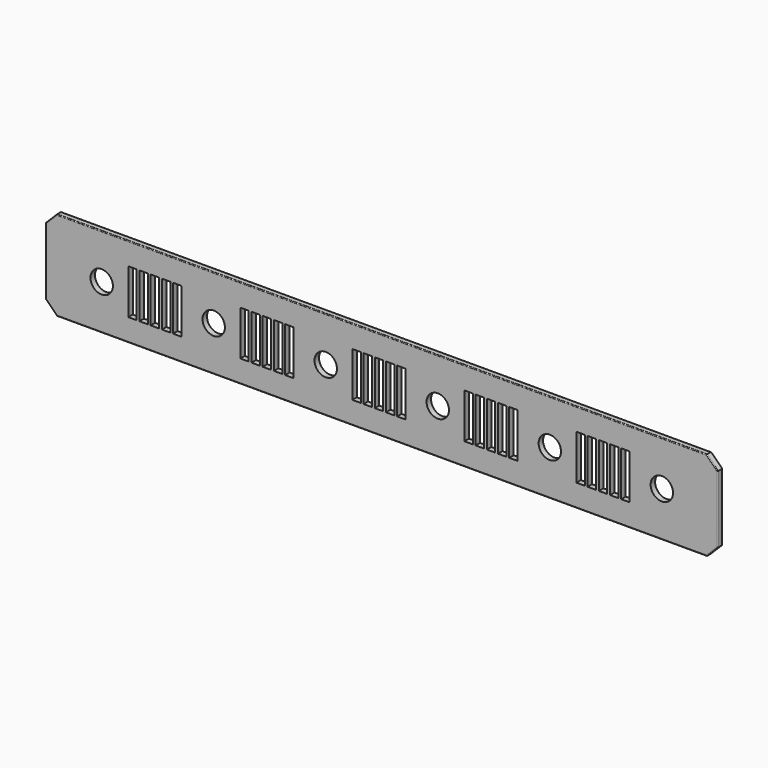
from build123d import *

# Parameters (mm, degrees)
F0_W     = 762
F0_H     = 101.6
F0_R     = 12.7
F1_DEPTH = 6.35
F2_W     = 9.525
F2_H     = 50.8
F3_DEPTH = 25.4
F4_SIZE  = 12.7
F5_R     = 0.9144


with BuildPart() as f1:
    # F0 (on Front) → F1 (new body)
    with BuildSketch(Plane.XZ):
        with Locations((381, 50.8)):
            Rectangle(F0_W, F0_H)
        with Locations((63.5, 50.8)):
            Circle(F0_R, mode=Mode.SUBTRACT)
        with Locations((190.5, 50.8)):
            Circle(F0_R, mode=Mode.SUBTRACT)
        with Locations((317.5, 50.8)):
            Circle(F0_R, mode=Mode.SUBTRACT)
        with Locations((444.5, 50.8)):
            Circle(F0_R, mode=Mode.SUBTRACT)
        with Locations((571.5, 50.8)):
            Circle(F0_R, mode=Mode.SUBTRACT)
        with Locations((698.5, 50.8)):
            Circle(F0_R, mode=Mode.SUBTRACT)
    extrude(amount=F1_DEPTH)

    # F2 (on face) → F3 (cut)
    with BuildSketch(Plane.XZ.offset(6.35)):
        with Locations((98.4377, 50.8)):
            Rectangle(F2_W, F2_H)
        with Locations((111.1377, 50.8)):
            Rectangle(F2_W, F2_H)
        with Locations((123.8377, 50.8)):
            Rectangle(F2_W, F2_H)
        with Locations((136.5377, 50.8)):
            Rectangle(F2_W, F2_H)
        with Locations((149.2377, 50.8)):
            Rectangle(F2_W, F2_H)
        with Locations((225.4377, 50.8)):
            Rectangle(F2_W, F2_H)
        with Locations((238.1377, 50.8)):
            Rectangle(F2_W, F2_H)
        with Locations((250.8377, 50.8)):
            Rectangle(F2_W, F2_H)
        with Locations((263.5377, 50.8)):
            Rectangle(F2_W, F2_H)
        with Locations((276.2377, 50.8)):
            Rectangle(F2_W, F2_H)
        with Locations((352.4377, 50.8)):
            Rectangle(F2_W, F2_H)
        with Locations((365.1377, 50.8)):
            Rectangle(F2_W, F2_H)
        with Locations((377.8377, 50.8)):
            Rectangle(F2_W, F2_H)
        with Locations((390.5377, 50.8)):
            Rectangle(F2_W, F2_H)
        with Locations((403.2377, 50.8)):
            Rectangle(F2_W, F2_H)
        with Locations((479.4377, 50.8)):
            Rectangle(F2_W, F2_H)
        with Locations((492.1377, 50.8)):
            Rectangle(F2_W, F2_H)
        with Locations((504.8377, 50.8)):
            Rectangle(F2_W, F2_H)
        with Locations((517.5377, 50.8)):
            Rectangle(F2_W, F2_H)
        with Locations((530.2377, 50.8)):
            Rectangle(F2_W, F2_H)
        with Locations((606.4377, 50.8)):
            Rectangle(F2_W, F2_H)
        with Locations((619.1377, 50.8)):
            Rectangle(F2_W, F2_H)
        with Locations((631.8377, 50.8)):
            Rectangle(F2_W, F2_H)
        with Locations((644.5377, 50.8)):
            Rectangle(F2_W, F2_H)
        with Locations((657.2377, 50.8)):
            Rectangle(F2_W, F2_H)
    extrude(amount=-F3_DEPTH, mode=Mode.SUBTRACT)

    # F4
    f4_edges = [f1.edges().sort_by_distance(p)[0] for p in [
        (762, -3.175, 101.6),
        (762, -3.175, 0),
        (0, -3.175, 0),
        (0, -3.175, 101.6),
    ]]
    chamfer(f4_edges, length=F4_SIZE)

    # F5
    f5_edges = [f1.edges().sort_by_distance(p)[0] for p in [
        (6.35, -6.35, 95.25),
        (381, -6.35, 101.6),
        (0, 0, 50.8),
        (381, -6.35, 0),
        (6.35, -6.35, 6.35),
        (755.65, -6.35, 95.25),
        (755.65, -6.35, 6.35),
        (762, -6.35, 50.8),
        (381, 0, 101.6),
        (6.35, 0, 95.25),
        (0, -6.35, 50.8),
        (6.35, 0, 6.35),
        (381, 0, 0),
        (755.65, 0, 6.35),
        (762, 0, 50.8),
    ]]
    fillet(f5_edges, radius=F5_R)


solid = f1.part
